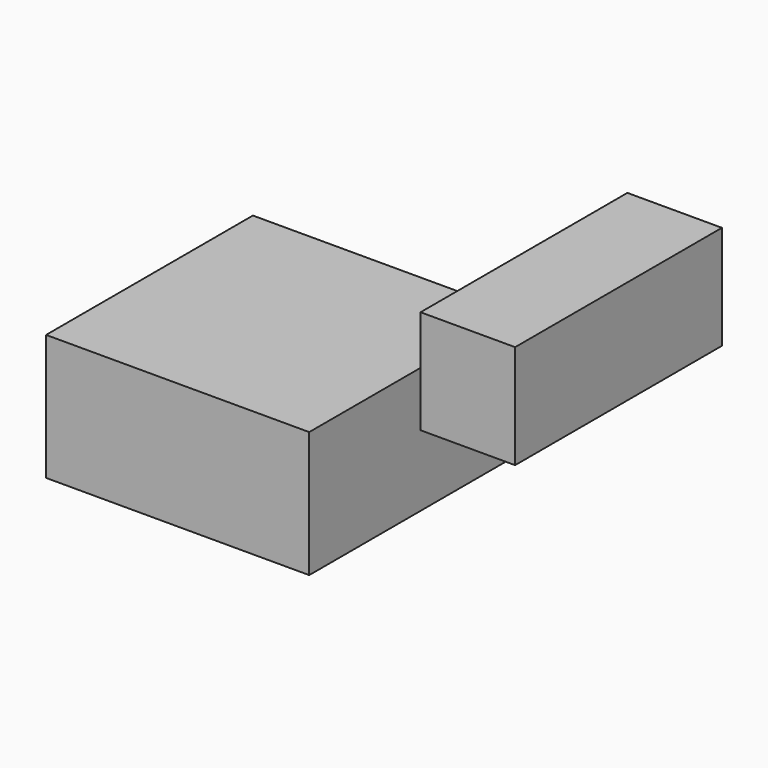
from build123d import *

# Parameters (mm, degrees)
F1_DEPTH = 81.09938


with BuildPart() as f1:
    # F0 (on Front) → F1 (new body)
    with BuildSketch(Plane.XZ):
        Polygon((-82.831989, -52.536491), (-0.281989, -52.536491), (-0.281989, -13.032951), (-16.288898, -13.032951), (-82.831989, -13.032951), align=None)
        Polygon((34.650549, 31.430669), (34.650549, 25.853898), (34.650549, 9.846989), (34.650549, -1.164176), (64.313437, -1.164176), (64.313437, 31.430669), align=None)
    extrude(amount=-F1_DEPTH)


solid = f1.part
